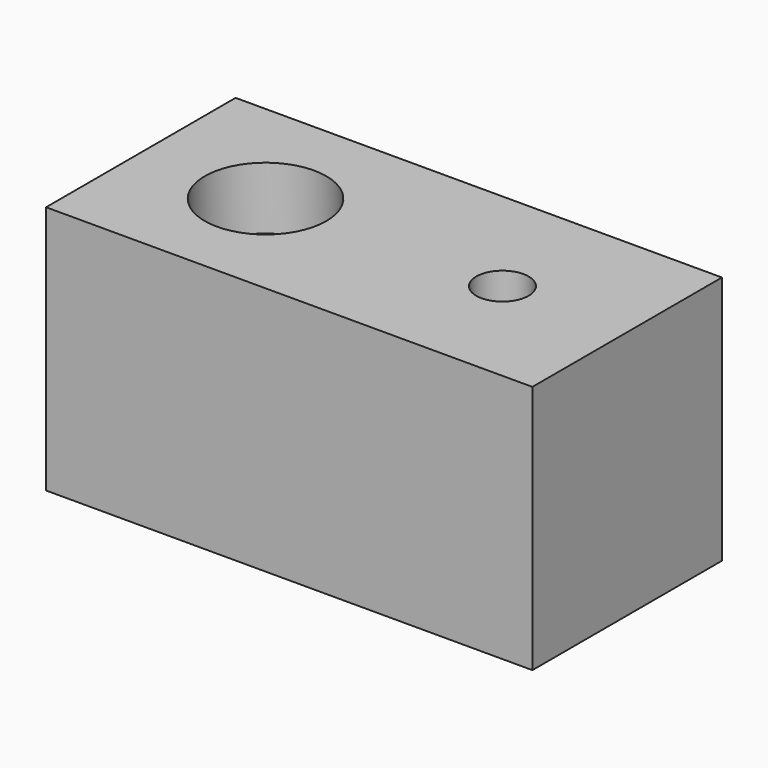
from build123d import *

# Parameters (mm, degrees)
F0_W           = 39
F0_H           = 19
F1_DEPTH       = 20
F2_D           = 5.5
F2_DEPTH       = 20
F2_CBORE_D     = 9.75
F2_CBORE_DEPTH = 5
F2_TIP         = 1.6523667023
F3_D           = 4.2
F3_DEPTH       = 22.4
F3_TIP         = 1.2618073


with BuildPart() as f1:
    # F0 (on Top) → F1 (new body)
    with BuildSketch(Plane.XY):
        Rectangle(F0_W, F0_H)
    extrude(amount=-F1_DEPTH)

    # F2
    with Locations(Plane.XY):
        with Locations((-9.5, 0)):
            CounterBoreHole(F2_D / 2, F2_CBORE_D / 2, F2_CBORE_DEPTH, depth=F2_DEPTH)
            with Locations((0, 0, -(F2_DEPTH + F2_TIP / 2))):  # 118° drill point
                Cone(0, F2_D / 2, F2_TIP, mode=Mode.SUBTRACT)

    # F3
    with Locations(Plane.XY):
        with Locations((9.5, 0)):
            Hole(F3_D / 2, depth=F3_DEPTH)
            with Locations((0, 0, -(F3_DEPTH + F3_TIP / 2))):  # 118° drill point
                Cone(0, F3_D / 2, F3_TIP, mode=Mode.SUBTRACT)


solid = f1.part
